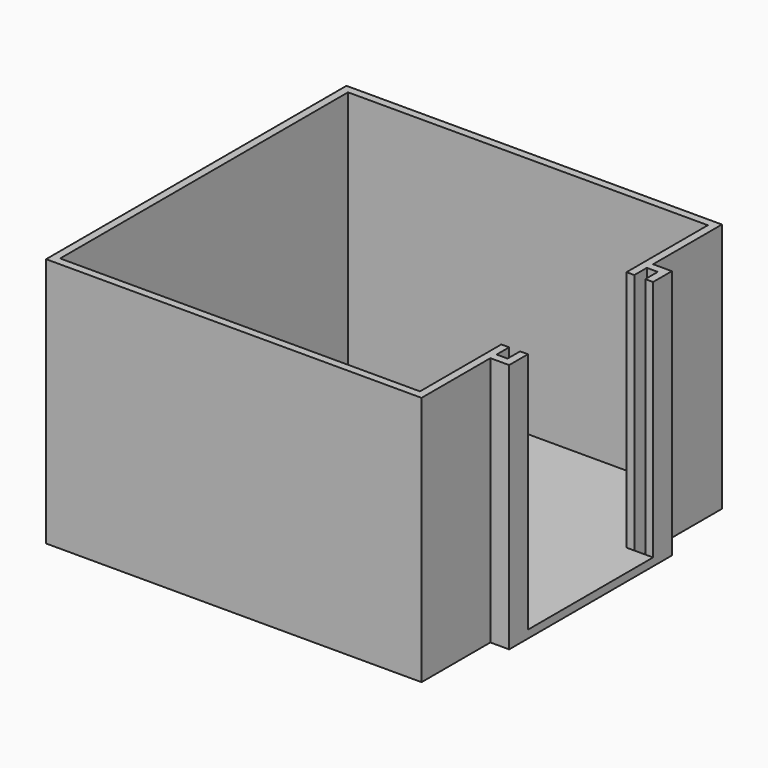
from build123d import *

# Parameters (mm, degrees)
F0_W     = 3.175
F0_H     = 6.35
F0_H_2   = 146.05
F1_DEPTH = 101.6
F2_W     = 10.795
F2_H     = 63.5
F3_DEPTH = 3.175


with BuildPart() as f1:
    # F0 (on Top) → F1 (new body)
    with BuildSketch(Plane.XY):
        Polygon((-76.2, 76.2), (-76.2, 73.025), (-73.025, 73.025), (73.025, 73.025), (76.2, 73.025), (76.2, 76.2), align=None)
        Polygon((73.025, -31.75), (73.025, -73.025), (76.2, -73.025), (76.2, -41.275), (76.2, -38.1), (76.2, -31.75), align=None)
        with Locations((82.2325, 34.925)):
            Rectangle(F0_W, F0_H)
        Polygon((-73.025, -73.025), (-76.2, -73.025), (-76.2, -76.2), (76.2, -76.2), (76.2, -73.025), (73.025, -73.025), align=None)
        Polygon((76.2, -38.1), (76.2, -41.275), (83.82, -41.275), (83.82, -38.1), (80.645, -38.1), align=None)
        with Locations((82.2325, -34.925)):
            Rectangle(F0_W, F0_H)
        Polygon((76.2, 73.025), (73.025, 73.025), (73.025, 31.75), (76.2, 31.75), (76.2, 38.1), (76.2, 41.275), align=None)
        Polygon((83.82, 41.275), (76.2, 41.275), (76.2, 38.1), (80.645, 38.1), (83.82, 38.1), align=None)
        with Locations((-74.6125, 0)):
            Rectangle(F0_W, F0_H_2)
    extrude(amount=F1_DEPTH)

    # F2 (on Top) → F3 (join)
    with BuildSketch(Plane.XY):
        Polygon((73.025, 31.75), (73.025, 73.025), (-73.025, 73.025), (-73.025, -73.025), (73.025, -73.025), (73.025, -31.75), align=None)
        with Locations((78.4225, 0)):
            Rectangle(F2_W, F2_H)
    extrude(amount=F3_DEPTH)


solid = f1.part
